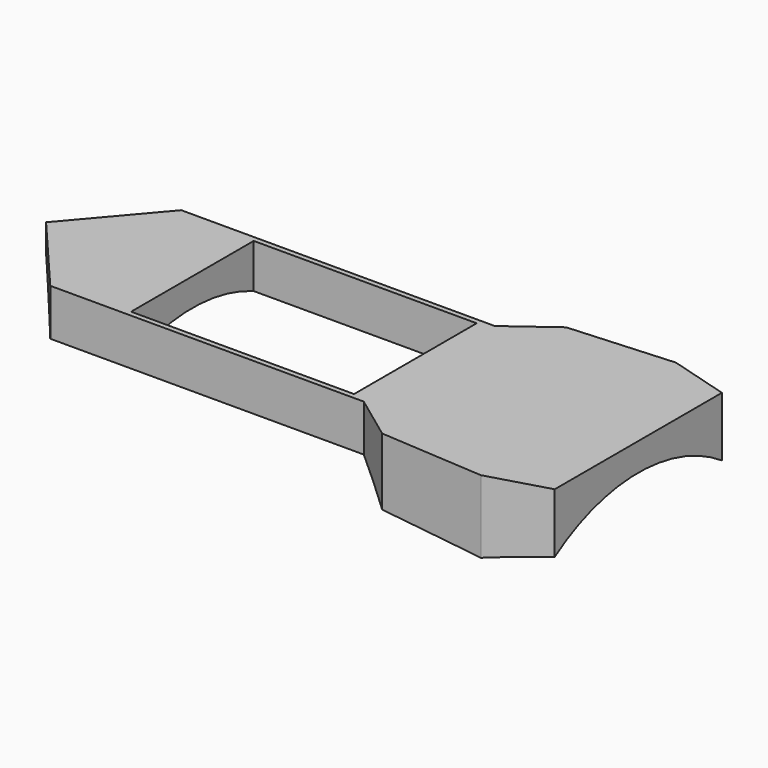
from build123d import *

# Parameters (mm, degrees)
F1_DEPTH = 78.74
F2_R     = 68.58
F3_DEPTH = 228.6
F4_W     = 81.28
F4_H     = 55.88
F5_DEPTH = 25.4


with BuildPart() as f1:
    # F0 (on Top) → F1 (new body)
    with BuildSketch(Plane.XY):
        Polygon((0, 0), (0, 38.1), (-21.834282, 44.45), (-59.849521, 41.91), (-76.2, 29.845), (-76.2, 0), align=None)
        Polygon((0, -38.1), (0, 0), (-76.2, 0), (-76.2, -29.845), (-59.849521, -41.91), (-21.834282, -44.45), align=None)
        Polygon((-76.2, -29.845), (-76.2, 0), (-76.2, 29.845), (-190.5, 29.845), (-215.9, 0), (-190.5, -29.845), align=None)
    extrude(amount=F1_DEPTH)

    # F2 (on face) → F3 (cut)
    with BuildSketch(Plane.YZ):
        Circle(F2_R)
    extrude(amount=-F3_DEPTH, mode=Mode.SUBTRACT)

    # F4 (on face) → F5 (cut)
    with BuildSketch(Plane.XY.offset(78.74)):
        with Locations((-121.92, 0)):
            Rectangle(F4_W, F4_H)
    extrude(amount=-F5_DEPTH, mode=Mode.SUBTRACT)


solid = f1.part
